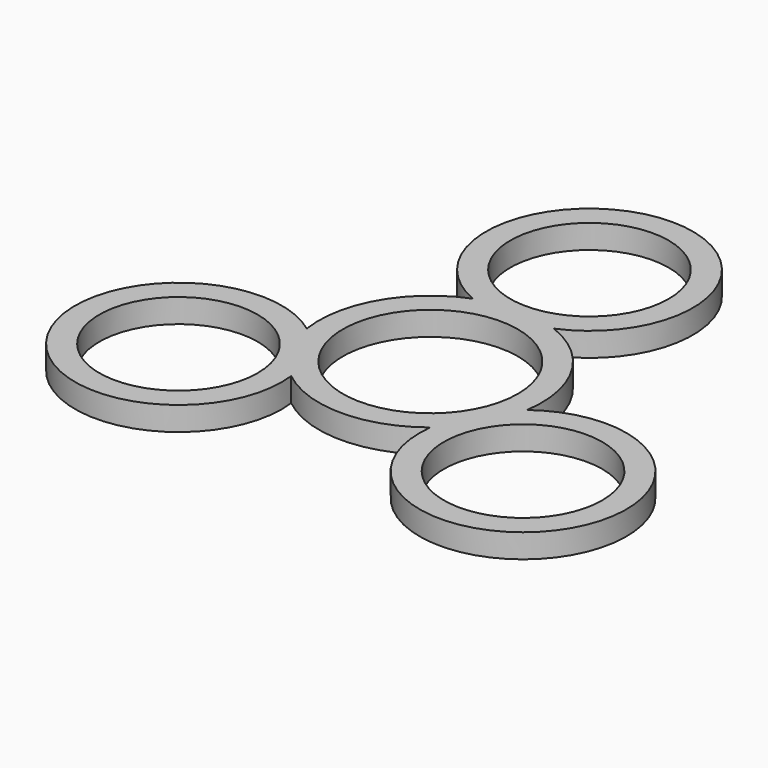
from build123d import *

# Parameters (mm, degrees)
F0_R     = 9.95
F0_R_2   = 11
F1_DEPTH = 3


with BuildPart() as f1:
    # F0 (on Top) → F1 (new body)
    with BuildSketch(Plane.XY):
        with BuildLine():
            ThreePointArc((5.094939, 13.04), (0, 38), (-5.094939, 13.04))
            ThreePointArc((-5.094939, 13.04), (-12.124356, 7), (-13.840441, -2.107654))
            ThreePointArc((-13.840441, -2.107654), (-32.908965, -19), (-8.745502, -10.932346))
            ThreePointArc((-8.745502, -10.932346), (0, -14), (8.745502, -10.932346))
            ThreePointArc((8.745502, -10.932346), (32.908965, -19), (13.840441, -2.107654))
            ThreePointArc((13.840441, -2.107654), (12.124356, 7), (5.094939, 13.04))
        make_face()
        with Locations((-21.650635, -12.5)):
            Circle(F0_R, mode=Mode.SUBTRACT)
        with Locations((21.650635, -12.5)):
            Circle(F0_R, mode=Mode.SUBTRACT)
        Circle(F0_R_2, mode=Mode.SUBTRACT)
        with Locations((0, 25)):
            Circle(F0_R, mode=Mode.SUBTRACT)
    extrude(amount=F1_DEPTH)


solid = f1.part
